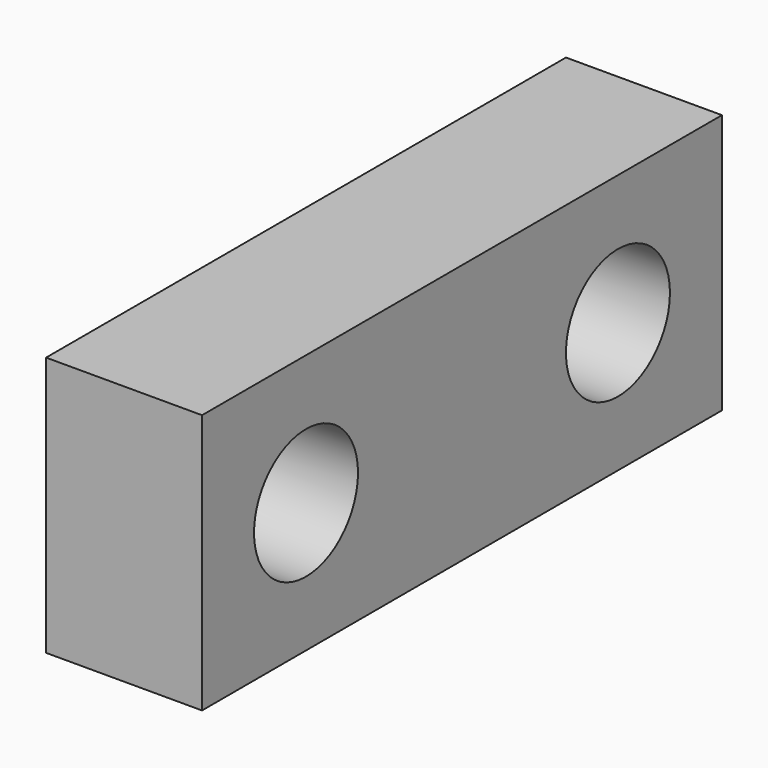
from build123d import *

# Parameters (mm, degrees)
F0_W     = 100
F0_H     = 40
F0_R     = 10
F1_DEPTH = 24
F2_R     = 18.25
F2_R_2   = 10
F3_DEPTH = 5
F5_D     = 3.3
F5_DEPTH = 14.1
F5_TIP   = 0.9914200214


with BuildPart() as f1:
    # F0 (on Right) → F1 (new body)
    with BuildSketch(Plane.YZ):
        Rectangle(F0_W, F0_H)
        with Locations((-30, 0)):
            Circle(F0_R, mode=Mode.SUBTRACT)
        with Locations((30, 0)):
            Circle(F0_R, mode=Mode.SUBTRACT)
    extrude(amount=F1_DEPTH)

    # F2 (on face) → F3 (cut)
    with BuildSketch(Plane(origin=(0, 0, 0), x_dir=(0, -1, 0), z_dir=(-1, 0, 0))):
        with Locations((-30, 0)):
            Circle(F2_R)
        with Locations((-30, 0)):
            Circle(F2_R_2, mode=Mode.SUBTRACT)
        with Locations((30, 0)):
            Circle(F2_R)
        with Locations((30, 0)):
            Circle(F2_R_2, mode=Mode.SUBTRACT)
    extrude(amount=-F3_DEPTH, mode=Mode.SUBTRACT)

    # F5
    with Locations(Plane(origin=(5, 0, 0), x_dir=(0, -1, 0), z_dir=(-1, 0, 0))):
        with Locations((-43, 0), (-30, 13), (-17, 0), (-30, -13), (17, 0), (30, 13), (43, 0), (30, -13)):
            Hole(F5_D / 2, depth=F5_DEPTH)
            with Locations((0, 0, -(F5_DEPTH + F5_TIP / 2))):  # 118° drill point
                Cone(0, F5_D / 2, F5_TIP, mode=Mode.SUBTRACT)


solid = f1.part
